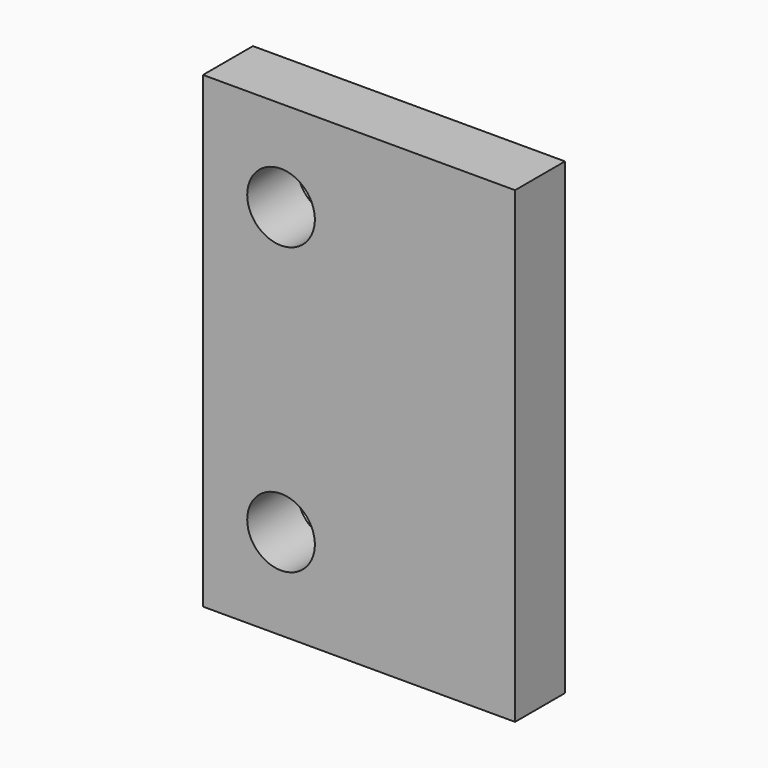
from build123d import *

# Parameters (mm, degrees)
F0_W     = 60
F0_H     = 90
F1_DEPTH = 12
F2_D     = 13


with BuildPart() as f1:
    # F0 (on Front) → F1 (new body)
    with BuildSketch(Plane.XZ):
        with Locations((-9.5794885419, 35.4121185594)):
            Rectangle(F0_W, F0_H)
        with Locations((-9.5794885419, 35.4121185594)):
            Rectangle(F0_W, F0_H)
    extrude(amount=F1_DEPTH)

    # F2 (through all)
    with Locations(Plane(origin=(0, 0, 0), x_dir=(1, 0, 0), z_dir=(0, 1, 0))):
        with Locations((-24.5794885419, -62.9121185594), (-24.5794885419, -7.9121185594)):
            Hole(F2_D / 2)


solid = f1.part
